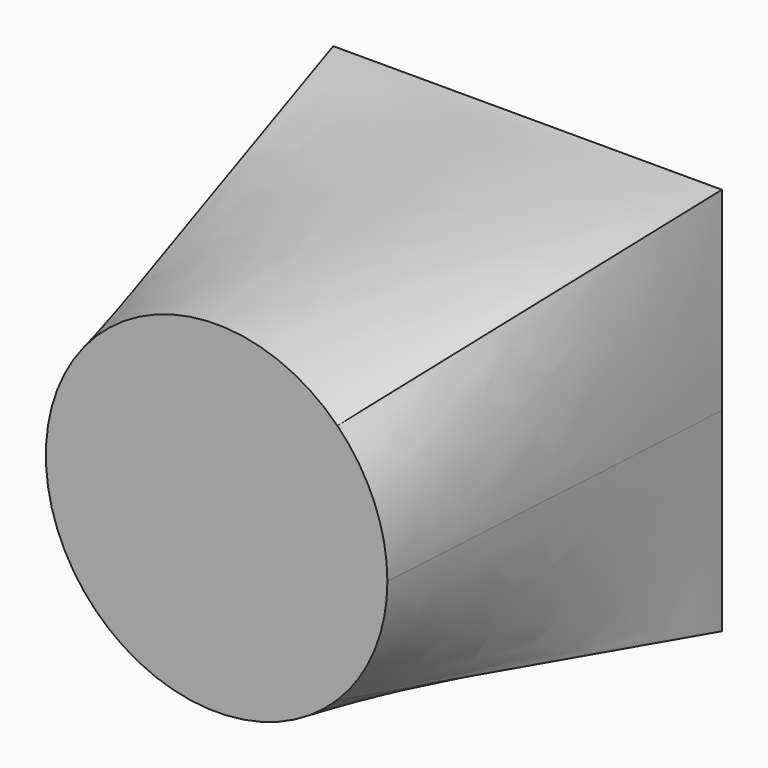
from build123d import *

# Parameters (mm, degrees)
F0_W = 50.8
F0_H = 50.800006
F2_R = 22.31823


with BuildPart() as f3:
    # F0 (on Front) → F3 section 0
    with BuildSketch(Plane.XZ):
        Rectangle(F0_W, F0_H)
    # F2 (on offset) → F3 section 1
    with BuildSketch(Plane.XZ.offset(50.8)):
        Circle(F2_R)
    loft()


solid = f3.part
